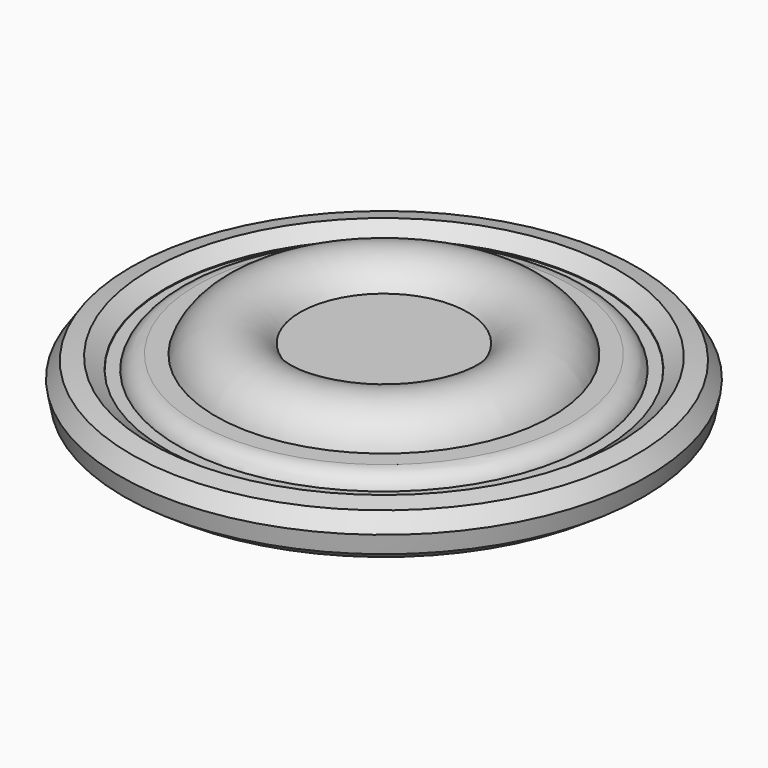
from build123d import *

# Parameters (mm, degrees)
F2_W = 40.0049984455
F2_H = 8.5304779932


with BuildPart() as f1:
    # F0 (on Front) → F1 (revolve)
    with BuildSketch(Plane.XZ):
        with BuildLine():
            Line((-17.918098104, 0), (0, 0))
            Line((0, 0), (0, 10.5895595625))
            Line((0, 10.5895595625), (-17.918098104, 10.5895595625))
            ThreePointArc((-17.918098104, 10.5895595625), (-36.5355256935, 5.2947797813), (-17.918098104, 0))
        make_face()
    revolve(axis=Axis((0, 0, 5.2947797813), (0, 0, 1)))

    # F2 (on Front) → F3 (revolve)
    with BuildSketch(Plane.XZ):
        with Locations((-20.0024992228, 4.2652389966)):
            Rectangle(F2_W, F2_H)
        with BuildLine():
            ThreePointArc((-40.0049984455, 8.5304779932), (-44.2702374421, 4.2652389966), (-40.0049984455, 0))
            Line((-40.0049984455, 0), (-40.0049984455, 8.5304779932))
        make_face()
    revolve(axis=Axis((0, 0, 4.2652389966), (0, 0, 1)))

    # F4 (on Front) → F5 (revolve)
    with BuildSketch(Plane.XZ):
        Polygon((-47.0647066832, 0), (0, 0), (0, 5.5889338255), (-46.6507802162, 5.5889338255), (-45.9072005883, 1.7057990241), align=None)
        Polygon((-48.222212778, -1.7057990241), (-47.0647066832, 0), (-51.1828698218, 0), (-51.1828698218, 5.5889338255), (-46.6507802162, 5.5889338255), (-46.682603885, 5.7551239565), (-50.0942019331, 8.0701361462), (-54.1435268656, 7.2947328496), (-56.4585390553, 3.8831348014), (-55.6831357586, -0.166190131), (-52.2715377104, -2.4812023207), align=None)
        Polygon((-51.1828698218, 0), (-47.0647066832, 0), (-45.9072005883, 1.7057990241), (-46.6507802162, 5.5889338255), (-51.1828698218, 5.5889338255), align=None)
    revolve(axis=Axis((0, 0, 2.7944669127), (0, 0, 1)))


solid = f1.part
